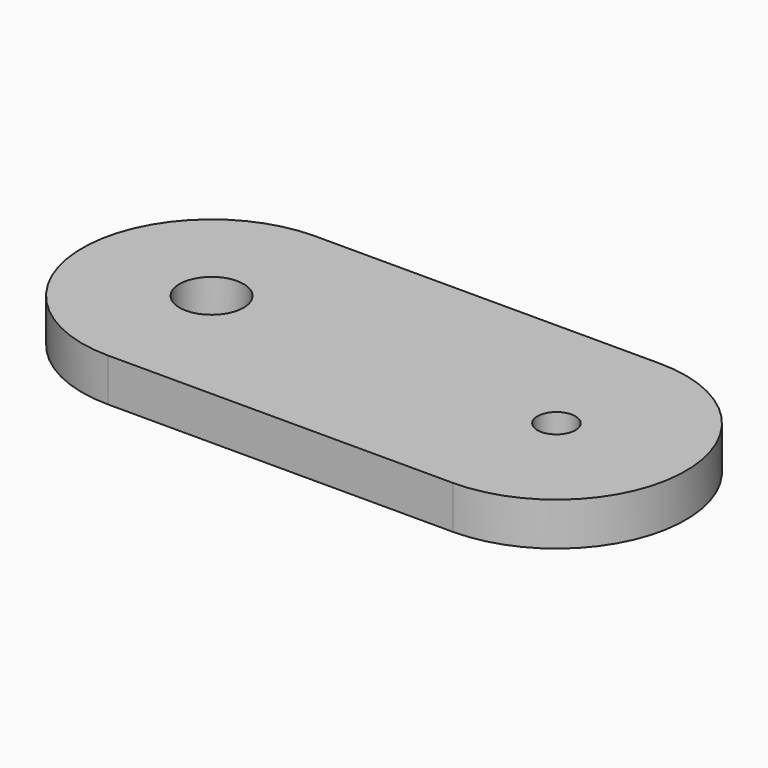
from build123d import *

# Parameters (mm, degrees)
F0_R     = 2.3622
F0_R_2   = 1.397
F1_DEPTH = 3.175


with BuildPart() as f1:
    # F0 (on Top) → F1 (new body)
    with BuildSketch(Plane.XY):
        with BuildLine():
            ThreePointArc((12.7, -9.525), (22.225, 0), (12.7, 9.525))
            Line((12.7, 9.525), (-12.7, 9.525))
            ThreePointArc((-12.7, 9.525), (-22.225, 0), (-12.7, -9.525))
            Line((-12.7, -9.525), (12.7, -9.525))
        make_face()
        with Locations((-12.7, 0)):
            Circle(F0_R, mode=Mode.SUBTRACT)
        with Locations((12.7, 0)):
            Circle(F0_R_2, mode=Mode.SUBTRACT)
    extrude(amount=F1_DEPTH)


solid = f1.part
